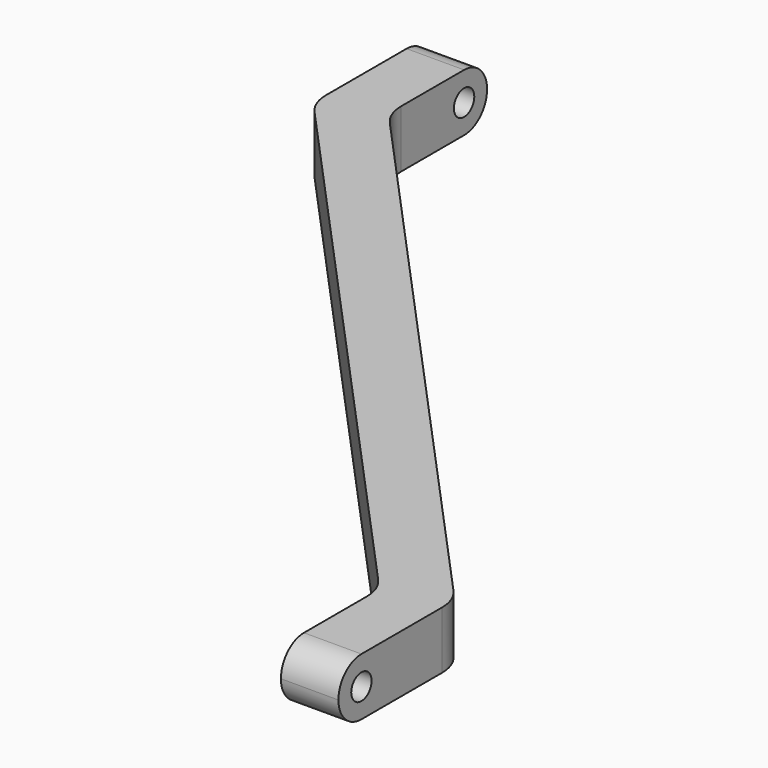
from build123d import *

# Parameters (mm, degrees)
PAD_DEPTH    = 7
SKETCH001_R  = 1.55
POCKET_DEPTH = 74.501
FILLET_R     = 3.4999
FILLET001_R  = 5


with BuildPart() as part:
    # Sketch → Pad (new body)
    with BuildSketch(Plane.XY):
        Polygon((-37.25, 35.794964), (-37.25, 53.5), (-30.25, 53.5), (-30.25, 38.5), (37.25, -35.794964), (37.25, -53.5), (30.25, -53.5), (30.25, -38.5), align=None)
    extrude(amount=PAD_DEPTH)

    # Sketch001 (on Face1 of Pad) → Pocket (cut, through all)
    with BuildSketch(Plane(origin=(-37.25, 0, 0), x_dir=(0, -1, 0), z_dir=(-1, 0, 0))):
        with Locations((-50, 3.5)):
            Circle(SKETCH001_R)
        with Locations((50, 3.5)):
            Circle(SKETCH001_R)
    extrude(amount=-POCKET_DEPTH, mode=Mode.SUBTRACT)

    # Fillet
    fillet_edges = [part.edges().sort_by_distance(p)[0] for p in [
        (-33.75, 53.5, 7),
        (-33.75, 53.5, 0),
        (33.75, -53.5, 0),
        (33.75, -53.5, 7),
    ]]
    fillet(fillet_edges, radius=FILLET_R)

    # Fillet001
    fillet001_edges = [part.edges().sort_by_distance(p)[0] for p in [
        (37.25, -35.794964, 3.5),
        (-30.25, 38.5, 3.5),
        (30.25, -38.5, 3.5),
        (-37.25, 35.794964, 3.5),
    ]]
    fillet(fillet001_edges, radius=FILLET001_R)


solid = part.part
